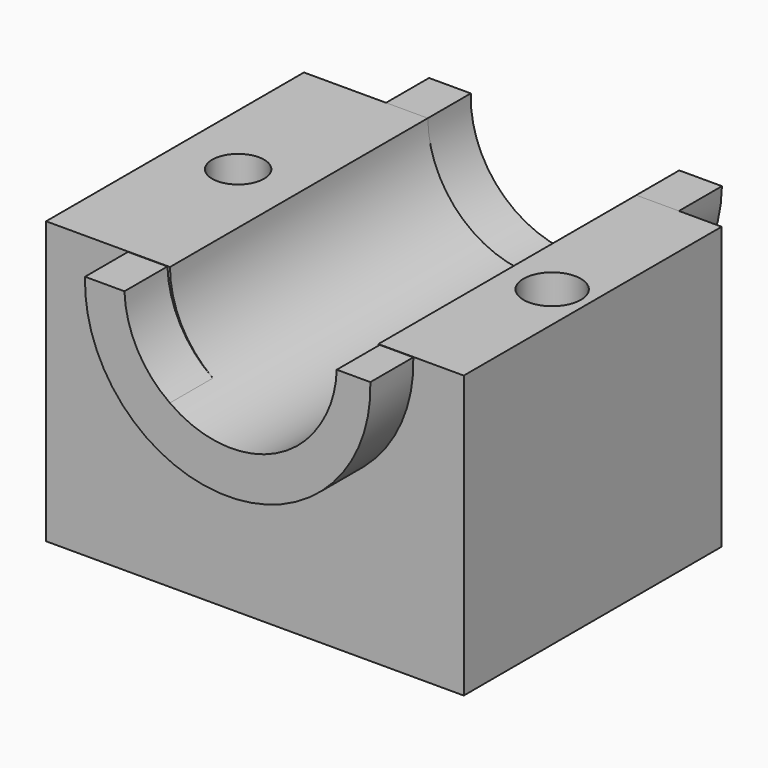
from build123d import *

# Parameters (mm, degrees)
F0_W          = 98.744937
F0_H          = 66.599365
F1_DEPTH      = 76.2
F4_DEPTH      = 12.7
F5_R          = 24.638622
F6_DEPTH      = 12.7
F6_DEPTH_BACK = 88.9
F7_R          = 6.776006
F7_R_2        = 6.130863
F8_DEPTH      = 66.600365
F10_DEPTH     = 12.7


with BuildPart() as f1:
    # F0 (on Front) → F1 (new body)
    with BuildSketch(Plane.XZ):
        with Locations((-17.064217, -16.306898)):
            Rectangle(F0_W, F0_H)
    extrude(amount=-F1_DEPTH)

    # F3 (on face) → F4 (join)
    with BuildSketch(Plane.XZ):
        with BuildLine():
            ThreePointArc((12.440301, 16.913241), (-12.653938, -7.34435), (-37.748177, 16.913241))
            Line((-37.748177, 16.913241), (-47.070116, 16.913241))
            ThreePointArc((-47.070116, 16.913241), (-13.344199, -17.828973), (20.381717, 16.913241))
            Line((20.381717, 16.913241), (12.440301, 16.913241))
        make_face()
    extrude(amount=F4_DEPTH)

    # F5 (on Front) → F6 (cut, two sides)
    with BuildSketch(Plane.XZ) as f6_sk:
        with Locations((-12.513756, 17.087433)):
            Circle(F5_R)
    extrude(amount=F6_DEPTH, mode=Mode.SUBTRACT)
    extrude(f6_sk.sketch, amount=-F6_DEPTH_BACK, mode=Mode.SUBTRACT)

    # F7 (on face) → F8 (cut, through all)
    with BuildSketch(Plane.XY.offset(16.992785)):
        with Locations((23.502037, 37.125945)):
            Circle(F7_R)
        with Locations((-51.750846, 38.397469)):
            Circle(F7_R_2)
    extrude(amount=-F8_DEPTH, mode=Mode.SUBTRACT)

    # F9 (on face) → F10 (join)
    with BuildSketch(Plane(origin=(0, 76.2, 0), x_dir=(-1, 0, 0), z_dir=(0, 1, 0))):
        with BuildLine():
            ThreePointArc((37.152196, 16.992785), (12.513756, -8.492675), (-12.124685, 16.992785))
            Line((-12.124685, 16.992785), (-22.216468, 16.992785))
            ThreePointArc((-22.216468, 16.992785), (12.40618, -17.061067), (47.028828, 16.992785))
            Line((47.028828, 16.992785), (37.152196, 16.992785))
        make_face()
    extrude(amount=F10_DEPTH)


solid = f1.part
